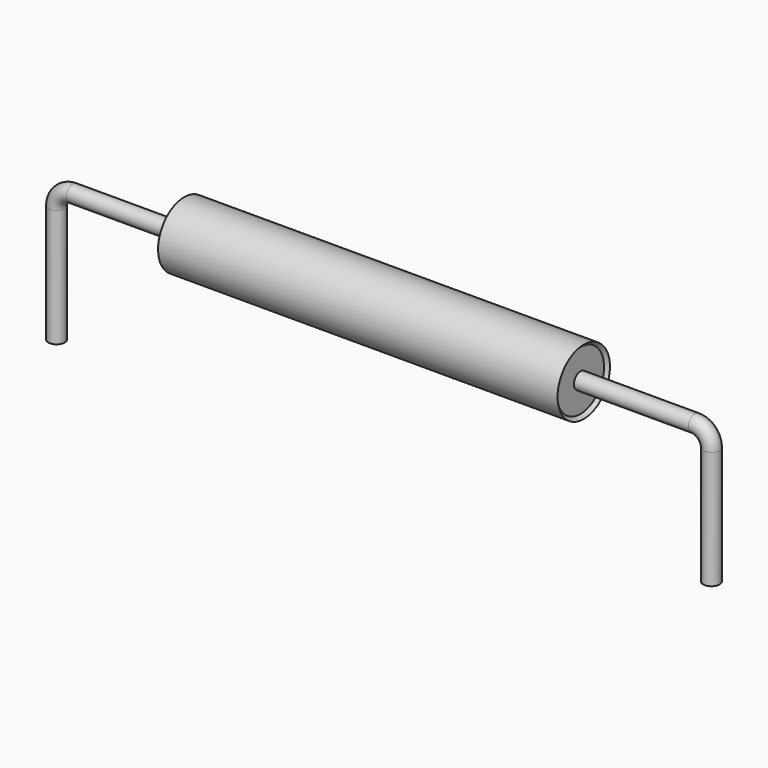
from build123d import *

# Parameters (mm, degrees)
SKETCH_R = 0.25


with BuildPart() as sweep_body:
    # Sweep: sweep along a path in Sketch001
    with BuildLine(Plane.XZ) as sweep_path:
        Line((0, -3), (0, 0.6))
        ThreePointArc((0, 0.6), (0.14645, 0.953557), (0.50001, 1.1))
        Line((0.50001, 1.1), (19.5, 1.1))
        ThreePointArc((19.5, 1.1), (19.853553, 0.953553), (20, 0.6))
        Line((20, 0.6), (20, -3))
    # Sketch → Sweep (sweep)
    with BuildSketch(Plane.XY.offset(-2)):
        Circle(SKETCH_R)
    sweep(path=sweep_path.line)


with BuildPart() as revolution:
    # Sketch002 → Revolution (revolve)
    with BuildSketch(Plane.XZ):
        Polygon((3.9, 2.1), (16.1, 2.1), (16, 2), (16, 1.1), (4, 1.1), (4, 2), align=None)
    revolve(axis=Axis((7.611803, 0, 1.1), (1, 0, 0)))


solid = Compound([sweep_body.part, revolution.part])
